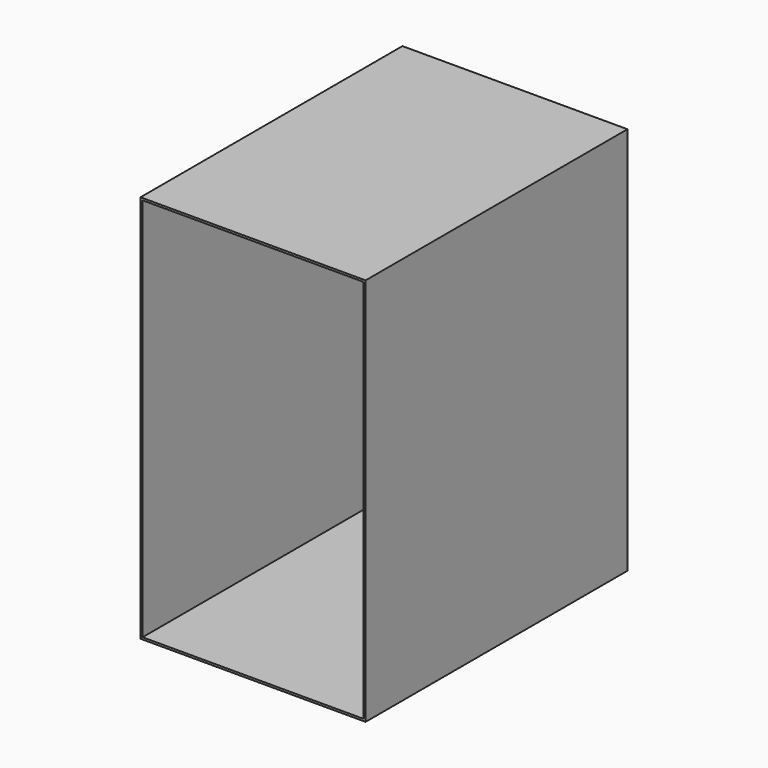
from build123d import *

# Parameters (mm, degrees)
F0_W     = 279.4
F0_H     = 482.6
F1_DEPTH = 25.4
F3_DEPTH = 381
F4_T     = -2.54


with BuildPart() as f1:
    # F0 (on Front) → F1 (new body)
    with BuildSketch(Plane.XZ):
        with Locations((-116.0904299468, 41.1734286772)):
            Rectangle(F0_W, F0_H)
    extrude(amount=F1_DEPTH)

    # F3 (add): a face of the model
    f3_faces = [f1.faces().sort_by_distance(p)[0] for p in [
        (-116.0904299468, -25.4, 41.1734286772),
    ]]
    extrude(f3_faces, amount=F3_DEPTH)

    # F4
    f4_openings = [f1.faces().sort_by_distance(p)[0] for p in [
        (-116.09043, -406.4, 41.173429),
    ]]
    offset(amount=F4_T, openings=f4_openings)


solid = f1.part
